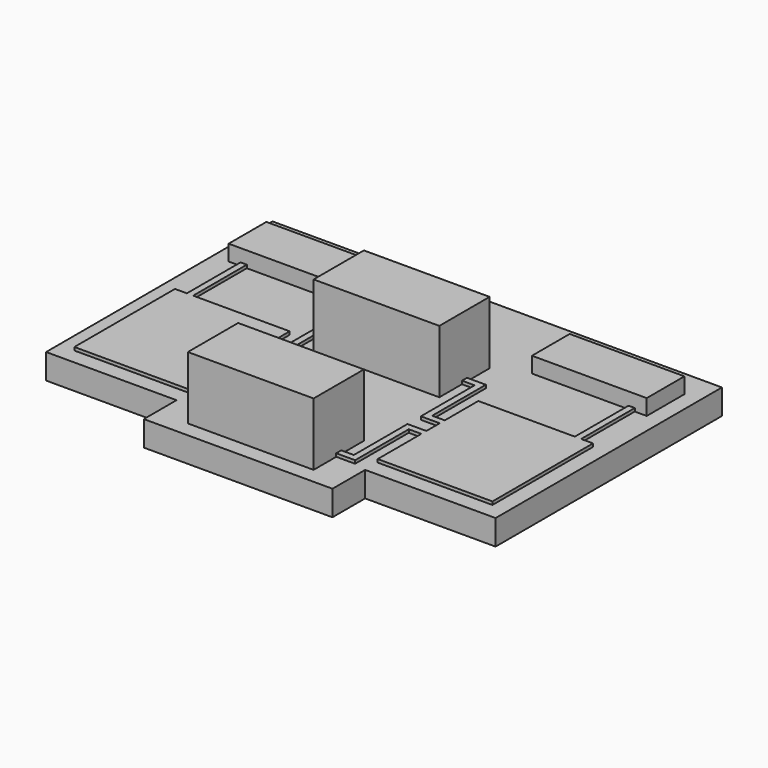
from build123d import *

# Parameters (mm, degrees)
F0_W     = 0.2
F0_H     = 2.1339745962
F1_DEPTH = 0.1
F2_DEPTH = 0.8
F3_DEPTH = 0.5
F4_DEPTH = 2


with BuildPart() as f1:
    # F0 (on Top) → F1 (new body)
    with BuildSketch(Plane.XY):
        Polygon((-6.65, 0), (-6.65, -4), (-3, -4), (-3, -2.2657535192), (-3, -2.0657535192), (-3, -1.5342464808), (-3, -1.3342464808), (-3, 0), (-6.0708631158, 0), (-6.2708631158, 0), align=None)
        with Locations((-6.1708631158, 1.0669872981)):
            Rectangle(F0_W, F0_H)
        Polygon((-3, -1.3342464808), (-3, -1.5342464808), (-2.4003390085, -1.5342464808), (-2.4003390085, 0.6), (-2, 0.6), (-2, 0.8), (-2.6003390085, 0.8), (-2.6003390085, -1.3342464808), align=None)
        Polygon((-3, -2.0657535192), (-3, -2.2657535192), (-2.6003390085, -2.2657535192), (-2.6003390085, -4.4), (-2, -4.4), (-2, -4.2), (-2.4003390085, -4.2), (-2.4003390085, -2.0657535192), align=None)
    extrude(amount=F1_DEPTH)


with BuildPart() as f1b:
    # F0 (on Top) → F1, piece 2 (new body)
    with BuildSketch(Plane.XY):
        Polygon((3, -2.0657535192), (3, -2.2657535192), (3, -4), (6.65, -4), (6.65, 0), (6.2708631158, 0), (6.0708631158, 0), (3, 0), (3, -1.3342464808), (3, -1.5342464808), align=None)
        with Locations((6.1708631158, 1.0669872981)):
            Rectangle(F0_W, F0_H)
        Polygon((2, 0.8), (2, 0.6), (2.4003390085, 0.6), (2.4003390085, -1.5342464808), (3, -1.5342464808), (3, -1.3342464808), (2.6003390085, -1.3342464808), (2.6003390085, 0.8), align=None)
        Polygon((2, -4.2), (2, -4.4), (2.6003390085, -4.4), (2.6003390085, -2.2657535192), (3, -2.2657535192), (3, -2.0657535192), (2.4003390085, -2.0657535192), (2.4003390085, -4.2), align=None)
    extrude(amount=F1_DEPTH)


with BuildPart() as f2:
    # F0 (on Top) → F2 (new body)
    with BuildSketch(Plane.XY):
        Polygon((7.15, 4.5), (-7.15, 4.5), (-7.15, -4.5), (-3, -4.5), (-3, -5.8), (3, -5.8), (3, -4.5), (7.15, -4.5), align=None)
        Polygon((-3, -4), (-6.65, -4), (-6.65, 0), (-6.2708631158, 0), (-6.2708631158, 2.1339745962), (-6.65, 2.1339745962), (-6.65, 3.6339745962), (-3, 3.6339745962), (-3, 2.1339745962), (-6.0708631158, 2.1339745962), (-6.0708631158, 0), (-3, 0), (-3, -1.3342464808), (-2.6003390085, -1.3342464808), (-2.6003390085, 0.8), (-2, 0.8), (-2, 1.7), (2, 1.7), (2, 0.8), (2.6003390085, 0.8), (2.6003390085, -1.3342464808), (3, -1.3342464808), (3, 0), (6.0708631158, 0), (6.0708631158, 2.1339745962), (3, 2.1339745962), (3, 3.6339745962), (6.65, 3.6339745962), (6.65, 2.1339745962), (6.2708631158, 2.1339745962), (6.2708631158, 0), (6.65, 0), (6.65, -4), (3, -4), (3, -2.2657535192), (2.6003390085, -2.2657535192), (2.6003390085, -4.4), (2, -4.4), (2, -5.3), (-2, -5.3), (-2, -4.4), (-2.6003390085, -4.4), (-2.6003390085, -2.2657535192), (-3, -2.2657535192), align=None, mode=Mode.SUBTRACT)
        Polygon((-3, -1.5342464808), (-3, -2.0657535192), (-2.4003390085, -2.0657535192), (-2.4003390085, -4.2), (-2, -4.2), (-2, -3.3), (2, -3.3), (2, -4.2), (2.4003390085, -4.2), (2.4003390085, -2.0657535192), (3, -2.0657535192), (3, -1.5342464808), (2.4003390085, -1.5342464808), (2.4003390085, 0.6), (2, 0.6), (2, -0.3), (-2, -0.3), (-2, 0.6), (-2.4003390085, 0.6), (-2.4003390085, -1.5342464808), align=None)
        Polygon((-6.65, 0), (-6.65, -4), (-3, -4), (-3, -2.2657535192), (-3, -2.0657535192), (-3, -1.5342464808), (-3, -1.3342464808), (-3, 0), (-6.0708631158, 0), (-6.2708631158, 0), align=None)
        Polygon((-3, -2.0657535192), (-3, -2.2657535192), (-2.6003390085, -2.2657535192), (-2.6003390085, -4.4), (-2, -4.4), (-2, -4.2), (-2.4003390085, -4.2), (-2.4003390085, -2.0657535192), align=None)
        Polygon((-3, -1.3342464808), (-3, -1.5342464808), (-2.4003390085, -1.5342464808), (-2.4003390085, 0.6), (-2, 0.6), (-2, 0.8), (-2.6003390085, 0.8), (-2.6003390085, -1.3342464808), align=None)
        Polygon((-2, -4.2), (-2, -4.4), (-2, -5.3), (2, -5.3), (2, -4.4), (2, -4.2), (2, -3.3), (-2, -3.3), align=None)
        Polygon((-2, 0.8), (-2, 0.6), (-2, -0.3), (2, -0.3), (2, 0.6), (2, 0.8), (2, 1.7), (-2, 1.7), align=None)
        Polygon((-6.65, 2.1339745962), (-6.2708631158, 2.1339745962), (-6.0708631158, 2.1339745962), (-3, 2.1339745962), (-3, 3.6339745962), (-6.65, 3.6339745962), align=None)
        with Locations((-6.1708631158, 1.0669872981)):
            Rectangle(F0_W, F0_H)
        Polygon((3, -2.0657535192), (3, -2.2657535192), (3, -4), (6.65, -4), (6.65, 0), (6.2708631158, 0), (6.0708631158, 0), (3, 0), (3, -1.3342464808), (3, -1.5342464808), align=None)
        Polygon((2, -4.2), (2, -4.4), (2.6003390085, -4.4), (2.6003390085, -2.2657535192), (3, -2.2657535192), (3, -2.0657535192), (2.4003390085, -2.0657535192), (2.4003390085, -4.2), align=None)
        Polygon((2, 0.8), (2, 0.6), (2.4003390085, 0.6), (2.4003390085, -1.5342464808), (3, -1.5342464808), (3, -1.3342464808), (2.6003390085, -1.3342464808), (2.6003390085, 0.8), align=None)
        Polygon((6.0708631158, 2.1339745962), (6.2708631158, 2.1339745962), (6.65, 2.1339745962), (6.65, 3.6339745962), (3, 3.6339745962), (3, 2.1339745962), align=None)
        with Locations((6.1708631158, 1.0669872981)):
            Rectangle(F0_W, F0_H)
    extrude(amount=-F2_DEPTH)


with BuildPart() as f3:
    # F0 (on Top) → F3 (new body)
    with BuildSketch(Plane.XY):
        Polygon((-6.65, 2.1339745962), (-6.2708631158, 2.1339745962), (-6.0708631158, 2.1339745962), (-3, 2.1339745962), (-3, 3.6339745962), (-6.65, 3.6339745962), align=None)
    extrude(amount=F3_DEPTH)


with BuildPart() as f3b:
    # F0 (on Top) → F3, piece 2 (new body)
    with BuildSketch(Plane.XY):
        Polygon((6.0708631158, 2.1339745962), (6.2708631158, 2.1339745962), (6.65, 2.1339745962), (6.65, 3.6339745962), (3, 3.6339745962), (3, 2.1339745962), align=None)
    extrude(amount=F3_DEPTH)


with BuildPart() as f4:
    # F0 (on Top) → F4 (new body)
    with BuildSketch(Plane.XY):
        Polygon((-2, 0.8), (-2, 0.6), (-2, -0.3), (2, -0.3), (2, 0.6), (2, 0.8), (2, 1.7), (-2, 1.7), align=None)
    extrude(amount=F4_DEPTH)


with BuildPart() as f4b:
    # F0 (on Top) → F4, piece 2 (new body)
    with BuildSketch(Plane.XY):
        Polygon((-2, -4.2), (-2, -4.4), (-2, -5.3), (2, -5.3), (2, -4.4), (2, -4.2), (2, -3.3), (-2, -3.3), align=None)
    extrude(amount=F4_DEPTH)


solid = Compound([f1.part, f1b.part, f2.part, f3.part, f3b.part, f4.part, f4b.part])
